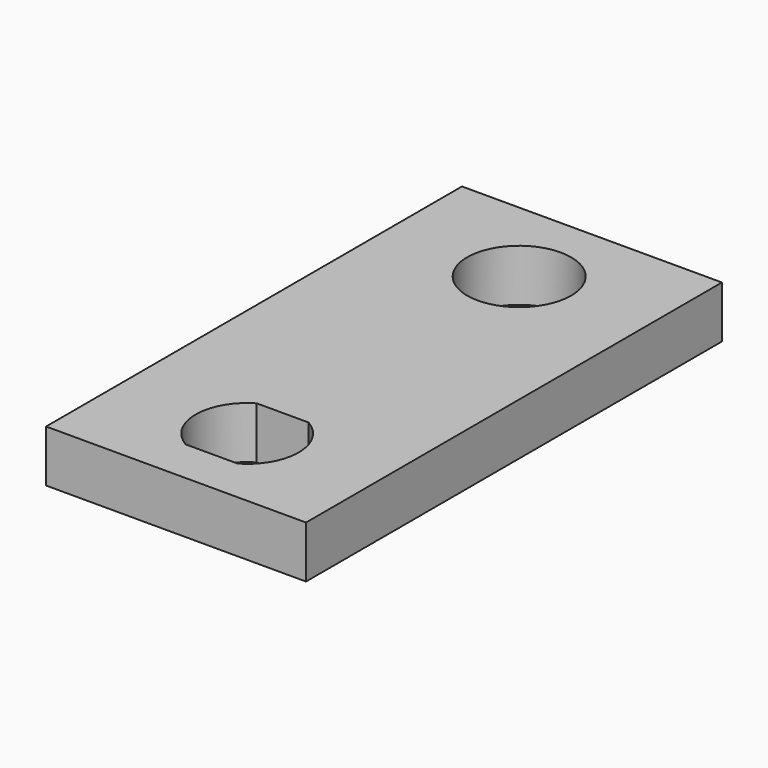
from build123d import *

# Parameters (mm, degrees)
F0_W     = 31.75
F0_H     = 63.5
F0_R     = 6.35
F1_DEPTH = 6.35


with BuildPart() as f1:
    # F0 (on Top) → F1 (new body)
    with BuildSketch(Plane.XY):
        Rectangle(F0_W, F0_H)
        with BuildLine():
            ThreePointArc((3.175, -15.46225), (6.289466, -20.8915), (3.175, -26.32075))
            Line((3.175, -26.32075), (-3.175, -26.32075))
            ThreePointArc((-3.175, -26.32075), (-6.289466, -20.8915), (-3.175, -15.46225))
            Line((-3.175, -15.46225), (3.175, -15.46225))
        make_face(mode=Mode.SUBTRACT)
        with Locations((0, 20.6375)):
            Circle(F0_R, mode=Mode.SUBTRACT)
    extrude(amount=F1_DEPTH)


solid = f1.part
